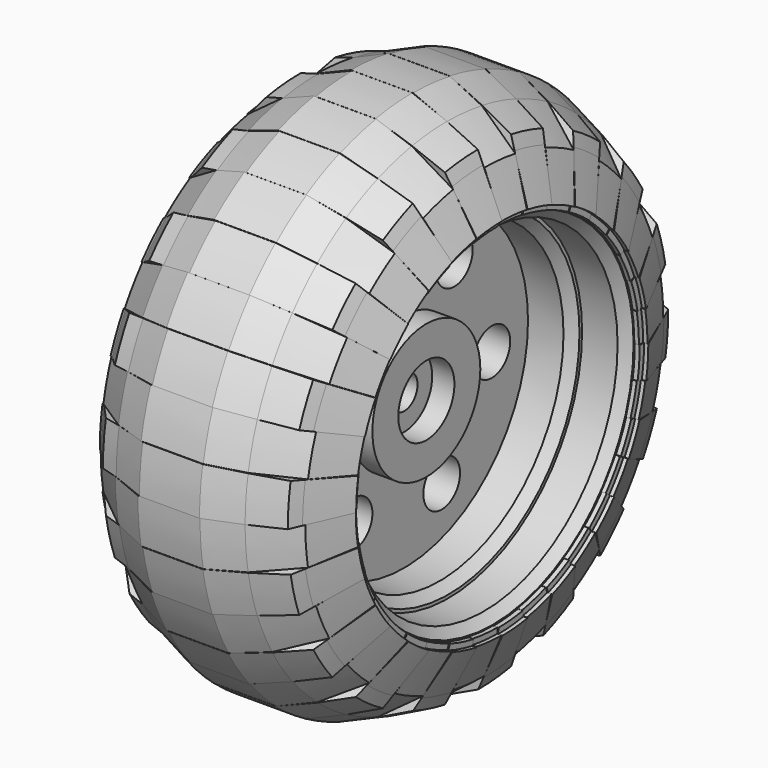
from build123d import *

# Parameters (mm, degrees)
F1_ANGLE   = 10
F2_COUNT   = 18
F4_ANGLE   = -10
F5_COUNT   = 18
F6_R       = 19.919972
F6_R_2     = 18.807652
F7_DEPTH   = 12.5
F6_R_3     = 17.441531
F8_DEPTH   = 7.5
F6_R_4     = 2.585591
F6_R_5     = 7.600759
F9_DEPTH   = 2.5
F6_R_6     = 3.952565
F10_DEPTH  = 5
F6_R_7     = 1.883345
F11_DEPTH  = 2.5
F12_SIZE   = 0.5
F13_SIZE   = 1
F14_SIZE   = 1
F14_2_SIZE = 1


with BuildPart() as f1:
    # F0 (on Top) → F1 (revolve)
    with BuildSketch(Plane.XY):
        Polygon((-3.498904, -30), (0, -30), (3.498904, -30), (7.306999, -28.408558), (11.525937, -25.206453), (13.480675, -20.534872), (12.990121, -20.540584), (13.013582, -19.915676), (12.453511, -19.915676), (12.453511, -21.905715), (9.585866, -26.045186), (4.448748, -27.864313), (0, -27.864313), (-4.448748, -27.864313), (-9.585866, -26.045186), (-12.453511, -21.905715), (-12.453511, -19.915676), (-13.013582, -19.915676), (-12.990121, -20.540584), (-13.480675, -20.534872), (-11.525937, -25.206453), (-7.306999, -28.408558), align=None)
    revolve(axis=Axis((4.078676, 0, 0), (1, 0, 0)), revolution_arc=F1_ANGLE)


with BuildPart() as f2_1:
    # F2: instance of F1
    add(f1.part.rotate(Axis((4.078676, 0, 0), (1, 0, 0)), 1 * 360 / F2_COUNT))


with BuildPart() as f2_2:
    # F2: instance of F1
    add(f1.part.rotate(Axis((4.078676, 0, 0), (1, 0, 0)), 2 * 360 / F2_COUNT))


with BuildPart() as f2_3:
    # F2: instance of F1
    add(f1.part.rotate(Axis((4.078676, 0, 0), (1, 0, 0)), 3 * 360 / F2_COUNT))


with BuildPart() as f2_4:
    # F2: instance of F1
    add(f1.part.rotate(Axis((4.078676, 0, 0), (1, 0, 0)), 4 * 360 / F2_COUNT))


with BuildPart() as f2_5:
    # F2: instance of F1
    add(f1.part.rotate(Axis((4.078676, 0, 0), (1, 0, 0)), 5 * 360 / F2_COUNT))


with BuildPart() as f2_6:
    # F2: instance of F1
    add(f1.part.rotate(Axis((4.078676, 0, 0), (1, 0, 0)), 6 * 360 / F2_COUNT))


with BuildPart() as f2_7:
    # F2: instance of F1
    add(f1.part.rotate(Axis((4.078676, 0, 0), (1, 0, 0)), 7 * 360 / F2_COUNT))


with BuildPart() as f2_8:
    # F2: instance of F1
    add(f1.part.rotate(Axis((4.078676, 0, 0), (1, 0, 0)), 8 * 360 / F2_COUNT))


with BuildPart() as f2_9:
    # F2: instance of F1
    add(f1.part.rotate(Axis((4.078676, 0, 0), (1, 0, 0)), 9 * 360 / F2_COUNT))


with BuildPart() as f2_10:
    # F2: instance of F1
    add(f1.part.rotate(Axis((4.078676, 0, 0), (1, 0, 0)), 10 * 360 / F2_COUNT))


with BuildPart() as f2_11:
    # F2: instance of F1
    add(f1.part.rotate(Axis((4.078676, 0, 0), (1, 0, 0)), 11 * 360 / F2_COUNT))


with BuildPart() as f2_12:
    # F2: instance of F1
    add(f1.part.rotate(Axis((4.078676, 0, 0), (1, 0, 0)), 12 * 360 / F2_COUNT))


with BuildPart() as f2_13:
    # F2: instance of F1
    add(f1.part.rotate(Axis((4.078676, 0, 0), (1, 0, 0)), 13 * 360 / F2_COUNT))


with BuildPart() as f2_14:
    # F2: instance of F1
    add(f1.part.rotate(Axis((4.078676, 0, 0), (1, 0, 0)), 14 * 360 / F2_COUNT))


with BuildPart() as f2_15:
    # F2: instance of F1
    add(f1.part.rotate(Axis((4.078676, 0, 0), (1, 0, 0)), 15 * 360 / F2_COUNT))


with BuildPart() as f2_16:
    # F2: instance of F1
    add(f1.part.rotate(Axis((4.078676, 0, 0), (1, 0, 0)), 16 * 360 / F2_COUNT))


with BuildPart() as f2_17:
    # F2: instance of F1
    add(f1.part.rotate(Axis((4.078676, 0, 0), (1, 0, 0)), 17 * 360 / F2_COUNT))


with BuildPart() as f4:
    # F3 (on Top) → F4 (revolve)
    with BuildSketch(Plane.XY):
        Polygon((-3.312045, -30.010568), (0.069603, -30.010568), (3.451251, -30.010568), (7.33184, -28.440377), (10.818317, -26.79232), (11.406143, -25.440398), (13.548361, -20.571325), (13.069306, -20.571325), (13.093265, -19.933149), (12.534427, -19.933149), (12.534427, -21.876101), (9.538213, -26.201162), (4.401095, -28.020289), (0.116918, -28.020289), (0.022288, -28.020289), (-4.26189, -28.020289), (-9.399007, -26.201162), (-12.395222, -21.876101), (-12.395222, -19.933149), (-12.95406, -19.933149), (-12.930101, -20.571325), (-13.409155, -20.571325), (-11.623558, -25.213515), (-11.266937, -25.440398), (-9.137814, -27.879486), (-7.192635, -28.440377), align=None)
    revolve(axis=Axis((4.195594, -0.138895, 0), (1, 0, 0)), revolution_arc=F4_ANGLE)


with BuildPart() as f5_1:
    # F5: instance of F4
    add(f4.part.rotate(Axis((4.078676, 0, 0), (1, 0, 0)), 1 * 360 / F5_COUNT))


with BuildPart() as f5_2:
    # F5: instance of F4
    add(f4.part.rotate(Axis((4.078676, 0, 0), (1, 0, 0)), 2 * 360 / F5_COUNT))


with BuildPart() as f5_3:
    # F5: instance of F4
    add(f4.part.rotate(Axis((4.078676, 0, 0), (1, 0, 0)), 3 * 360 / F5_COUNT))


with BuildPart() as f5_4:
    # F5: instance of F4
    add(f4.part.rotate(Axis((4.078676, 0, 0), (1, 0, 0)), 4 * 360 / F5_COUNT))


with BuildPart() as f5_5:
    # F5: instance of F4
    add(f4.part.rotate(Axis((4.078676, 0, 0), (1, 0, 0)), 5 * 360 / F5_COUNT))


with BuildPart() as f5_6:
    # F5: instance of F4
    add(f4.part.rotate(Axis((4.078676, 0, 0), (1, 0, 0)), 6 * 360 / F5_COUNT))


with BuildPart() as f5_7:
    # F5: instance of F4
    add(f4.part.rotate(Axis((4.078676, 0, 0), (1, 0, 0)), 7 * 360 / F5_COUNT))


with BuildPart() as f5_8:
    # F5: instance of F4
    add(f4.part.rotate(Axis((4.078676, 0, 0), (1, 0, 0)), 8 * 360 / F5_COUNT))


with BuildPart() as f5_9:
    # F5: instance of F4
    add(f4.part.rotate(Axis((4.078676, 0, 0), (1, 0, 0)), 9 * 360 / F5_COUNT))


with BuildPart() as f5_10:
    # F5: instance of F4
    add(f4.part.rotate(Axis((4.078676, 0, 0), (1, 0, 0)), 10 * 360 / F5_COUNT))


with BuildPart() as f5_11:
    # F5: instance of F4
    add(f4.part.rotate(Axis((4.078676, 0, 0), (1, 0, 0)), 11 * 360 / F5_COUNT))


with BuildPart() as f5_12:
    # F5: instance of F4
    add(f4.part.rotate(Axis((4.078676, 0, 0), (1, 0, 0)), 12 * 360 / F5_COUNT))


with BuildPart() as f5_13:
    # F5: instance of F4
    add(f4.part.rotate(Axis((4.078676, 0, 0), (1, 0, 0)), 13 * 360 / F5_COUNT))


with BuildPart() as f5_14:
    # F5: instance of F4
    add(f4.part.rotate(Axis((4.078676, 0, 0), (1, 0, 0)), 14 * 360 / F5_COUNT))


with BuildPart() as f5_15:
    # F5: instance of F4
    add(f4.part.rotate(Axis((4.078676, 0, 0), (1, 0, 0)), 15 * 360 / F5_COUNT))


with BuildPart() as f5_16:
    # F5: instance of F4
    add(f4.part.rotate(Axis((4.078676, 0, 0), (1, 0, 0)), 16 * 360 / F5_COUNT))


with BuildPart() as f5_17:
    # F5: instance of F4
    add(f4.part.rotate(Axis((4.078676, 0, 0), (1, 0, 0)), 17 * 360 / F5_COUNT))


with BuildPart() as f7:
    # F6 (on Right) → F7 (new body, symmetric)
    with BuildSketch(Plane.YZ):
        Circle(F6_R)
        Circle(F6_R_2, mode=Mode.SUBTRACT)
    extrude(amount=F7_DEPTH, both=True)

    # F12
    f12_edges = [f7.edges().sort_by_distance(p)[0] for p in [
        (-12.5, -18.807652, 0),
    ]]
    chamfer(f12_edges, length=F12_SIZE)

    # F14#2
    f14_2_edges = [f7.edges().sort_by_distance(p)[0] for p in [
        (12.5, -18.807652, 0),
    ]]
    chamfer(f14_2_edges, length=F14_2_SIZE)


with BuildPart() as f8:
    # F6 (on Right) → F8 (new body, symmetric)
    with BuildSketch(Plane.YZ):
        Circle(F6_R)
        Circle(F6_R_2, mode=Mode.SUBTRACT)
        Circle(F6_R_2)
        Circle(F6_R_3, mode=Mode.SUBTRACT)
    extrude(amount=F8_DEPTH, both=True)

    # F6 (on Right) → F9 (join, symmetric)
    with BuildSketch(Plane.YZ):
        Circle(F6_R_3)
        with Locations((-7.060337, -10.182299)):
            Circle(F6_R_4, mode=Mode.SUBTRACT)
        with Locations((5.287961, -11.20558)):
            Circle(F6_R_4, mode=Mode.SUBTRACT)
        with Locations((12.348298, -1.023282)):
            Circle(F6_R_4, mode=Mode.SUBTRACT)
        with Locations((-12.348298, 1.023282)):
            Circle(F6_R_4, mode=Mode.SUBTRACT)
        with Locations((-5.287961, 11.20558)):
            Circle(F6_R_4, mode=Mode.SUBTRACT)
        Circle(F6_R_5, mode=Mode.SUBTRACT)
        with Locations((7.060337, 10.182299)):
            Circle(F6_R_4, mode=Mode.SUBTRACT)
    extrude(amount=F9_DEPTH, both=True)

    # F6 (on Right) → F10 (join, symmetric)
    with BuildSketch(Plane.YZ):
        Circle(F6_R_5)
        Circle(F6_R_6, mode=Mode.SUBTRACT)
    extrude(amount=F10_DEPTH, both=True)

    # F6 (on Right) → F11 (join, symmetric)
    with BuildSketch(Plane.YZ):
        Circle(F6_R_6)
        Circle(F6_R_7, mode=Mode.SUBTRACT)
    extrude(amount=F11_DEPTH, both=True)

    # F13
    f13_edges = [f8.edges().sort_by_distance(p)[0] for p in [
        (-7.5, -17.441531, 0),
    ]]
    chamfer(f13_edges, length=F13_SIZE)

    # F14
    f14_edges = [f8.edges().sort_by_distance(p)[0] for p in [
        (7.5, -17.441531, 0),
    ]]
    chamfer(f14_edges, length=F14_SIZE)


solid = Compound([f1.part, f2_1.part, f2_2.part, f2_3.part, f2_4.part, f2_5.part, f2_6.part, f2_7.part, f2_8.part, f2_9.part, f2_10.part, f2_11.part, f2_12.part, f2_13.part, f2_14.part, f2_15.part, f2_16.part, f2_17.part, f4.part, f5_1.part, f5_2.part, f5_3.part, f5_4.part, f5_5.part, f5_6.part, f5_7.part, f5_8.part, f5_9.part, f5_10.part, f5_11.part, f5_12.part, f5_13.part, f5_14.part, f5_15.part, f5_16.part, f5_17.part, f7.part, f8.part])
